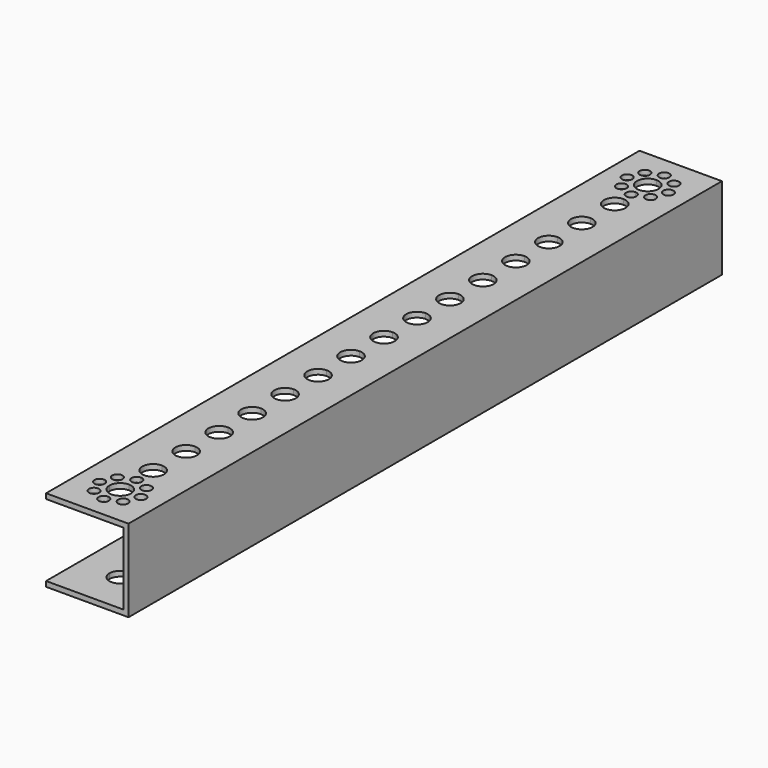
from build123d import *

# Parameters (mm, degrees)
F0_W     = 32
F0_H     = 32
F1_DEPTH = 288
F2_T     = -2
F4_DEPTH = 2
F5_R     = 2
F6_DEPTH = 2


with BuildPart() as f1:
    # F0 (on Front) → F1 (new body)
    with BuildSketch(Plane.XZ):
        with Locations((16, 16)):
            Rectangle(F0_W, F0_H)
    extrude(amount=-F1_DEPTH)

    # F2
    f2_openings = [f1.faces().sort_by_distance(p)[0] for p in [
        (0, 144, 16),
        (16, 0, 16),
        (16, 288, 16),
    ]]
    offset(amount=F2_T, openings=f2_openings)

    # F3 (on face) → F4 (cut, through all)
    with BuildSketch(Plane(origin=(0, 0, 0), x_dir=(1, 0, 0), z_dir=(0, 0, -1))):
        with BuildLine():
            Line((20.191, -15.999), (16, -15.999))
            Line((16, -15.999), (16, -20.19))
            ThreePointArc((16, -20.19), (18.96348452, -18.96248452), (20.191, -15.999))
        make_face()
        with BuildLine():
            ThreePointArc((20.191, -15.999), (18.96348452, -13.03551548), (16, -11.808))
            Line((16, -11.808), (16, -15.999))
            Line((16, -15.999), (20.191, -15.999))
        make_face()
        with BuildLine():
            Line((16, -15.999), (16, -11.808))
            ThreePointArc((16, -11.808), (13.03651548, -13.03551548), (11.809, -15.999))
            Line((11.809, -15.999), (16, -15.999))
        make_face()
        with BuildLine():
            Line((16, -15.999), (11.809, -15.999))
            ThreePointArc((11.809, -15.999), (13.03651548, -18.96248452), (16, -20.19))
            Line((16, -20.19), (16, -15.999))
        make_face()
        with BuildLine():
            ThreePointArc((20.191, -272.001), (18.96348452, -269.03751548), (16, -267.81))
            Line((16, -267.81), (16, -276.192))
            ThreePointArc((16, -276.192), (18.96348452, -274.96448452), (20.191, -272.001))
        make_face()
        with BuildLine():
            Line((16, -276.192), (16, -267.81))
            ThreePointArc((16, -267.81), (11.809, -272.001), (16, -276.192))
        make_face()
    extrude(amount=-F4_DEPTH, mode=Mode.SUBTRACT)

    # F5 (on face) → F6 (cut, through all)
    with BuildSketch(Plane.XY.offset(32)):
        with BuildLine():
            Line((16, 47.999), (16, 43.808))
            ThreePointArc((16, 43.808), (18.96348452, 45.03551548), (20.191, 47.999))
            ThreePointArc((20.191, 47.999), (18.96348452, 50.96248452), (16, 52.19))
            Line((16, 52.19), (16, 47.999))
        make_face()
        with BuildLine():
            ThreePointArc((16, 52.19), (11.809, 47.999), (16, 43.808))
            Line((16, 43.808), (16, 47.999))
            Line((16, 47.999), (16, 52.19))
        make_face()
        with BuildLine():
            Line((16, 31.999), (16, 27.808))
            ThreePointArc((16, 27.808), (18.96348452, 29.03551548), (20.191, 31.999))
            ThreePointArc((20.191, 31.999), (18.96348452, 34.96248452), (16, 36.19))
            Line((16, 36.19), (16, 31.999))
        make_face()
        with BuildLine():
            ThreePointArc((16, 36.19), (11.809, 31.999), (16, 27.808))
            Line((16, 27.808), (16, 31.999))
            Line((16, 31.999), (16, 36.19))
        make_face()
        with BuildLine():
            Line((16, 23.999), (16, 21.999))
            ThreePointArc((16, 21.999), (17.4142135624, 22.5847864376), (18, 23.999))
            ThreePointArc((18, 23.999), (17.4142135624, 25.4132135624), (16, 25.999))
            Line((16, 25.999), (16, 23.999))
        make_face()
        with BuildLine():
            ThreePointArc((16, 25.999), (14, 23.999), (16, 21.999))
            Line((16, 21.999), (16, 23.999))
            Line((16, 23.999), (16, 25.999))
        make_face()
        with BuildLine():
            Line((16, 15.999), (20.191, 15.999))
            ThreePointArc((20.191, 15.999), (18.96348452, 18.96248452), (16, 20.19))
            Line((16, 20.19), (16, 15.999))
        make_face()
        with BuildLine():
            ThreePointArc((22, 15.999), (24, 13.999), (26, 15.999))
            Line((26, 15.999), (22, 15.999))
        make_face()
        with BuildLine():
            Line((22, 15.999), (26, 15.999))
            ThreePointArc((26, 15.999), (24, 17.999), (22, 15.999))
        make_face()
        with Locations((21.6568542495, 21.6558542495)):
            Circle(F5_R)
        with BuildLine():
            ThreePointArc((16, 11.808), (18.96348452, 13.03551548), (20.191, 15.999))
            Line((20.191, 15.999), (16, 15.999))
            Line((16, 15.999), (16, 11.808))
        make_face()
        with Locations((10.3431457505, 21.6558542495)):
            Circle(F5_R)
        with BuildLine():
            Line((10, 15.999), (6, 15.999))
            ThreePointArc((6, 15.999), (8, 13.999), (10, 15.999))
        make_face()
        with BuildLine():
            ThreePointArc((10, 15.999), (8, 17.999), (6, 15.999))
            Line((6, 15.999), (10, 15.999))
        make_face()
        with Locations((10.3431457505, 10.3421457505)):
            Circle(F5_R)
        with BuildLine():
            Line((16, 9.999), (16, 5.999))
            ThreePointArc((16, 5.999), (17.4142135624, 6.5847864376), (18, 7.999))
            ThreePointArc((18, 7.999), (17.4142135624, 9.4132135624), (16, 9.999))
        make_face()
        with BuildLine():
            ThreePointArc((16, 9.999), (14, 7.999), (16, 5.999))
            Line((16, 5.999), (16, 9.999))
        make_face()
        with Locations((21.6568542495, 10.3421457505)):
            Circle(F5_R)
        with BuildLine():
            Line((16, 79.999), (16, 84.19))
            ThreePointArc((16, 84.19), (11.809, 79.999), (16, 75.808))
            Line((16, 75.808), (16, 79.999))
        make_face()
        with BuildLine():
            ThreePointArc((16, 68.19), (11.809, 63.999), (16, 59.808))
            Line((16, 59.808), (16, 63.999))
            Line((16, 63.999), (16, 68.19))
        make_face()
        with BuildLine():
            ThreePointArc((20.191, 79.999), (18.96348452, 82.96248452), (16, 84.19))
            Line((16, 84.19), (16, 79.999))
            Line((16, 79.999), (16, 75.808))
            ThreePointArc((16, 75.808), (18.96348452, 77.03551548), (20.191, 79.999))
        make_face()
        with BuildLine():
            Line((16, 63.999), (16, 59.808))
            ThreePointArc((16, 59.808), (18.96348452, 61.03551548), (20.191, 63.999))
            ThreePointArc((20.191, 63.999), (18.96348452, 66.96248452), (16, 68.19))
            Line((16, 68.19), (16, 63.999))
        make_face()
        with BuildLine():
            ThreePointArc((20.191, 95.999), (18.96348452, 98.96248452), (16, 100.19))
            Line((16, 100.19), (16, 95.999))
            Line((16, 95.999), (16, 91.808))
            ThreePointArc((16, 91.808), (18.96348452, 93.03551548), (20.191, 95.999))
        make_face()
        with BuildLine():
            Line((16, 95.999), (16, 100.19))
            ThreePointArc((16, 100.19), (11.809, 95.999), (16, 91.808))
            Line((16, 91.808), (16, 95.999))
        make_face()
        with BuildLine():
            Line((16, 111.999), (16, 116.19))
            ThreePointArc((16, 116.19), (11.809, 111.999), (16, 107.808))
            Line((16, 107.808), (16, 111.999))
        make_face()
        with BuildLine():
            ThreePointArc((20.191, 111.999), (18.96348452, 114.96248452), (16, 116.19))
            Line((16, 116.19), (16, 111.999))
            Line((16, 111.999), (16, 107.808))
            ThreePointArc((16, 107.808), (18.96348452, 109.03551548), (20.191, 111.999))
        make_face()
        with BuildLine():
            ThreePointArc((20.191, 127.999), (18.96348452, 130.96248452), (16, 132.19))
            Line((16, 132.19), (16, 127.999))
            Line((16, 127.999), (16, 123.808))
            ThreePointArc((16, 123.808), (18.96348452, 125.03551548), (20.191, 127.999))
        make_face()
        with BuildLine():
            Line((16, 127.999), (16, 132.19))
            ThreePointArc((16, 132.19), (11.809, 127.999), (16, 123.808))
            Line((16, 123.808), (16, 127.999))
        make_face()
        with BuildLine():
            ThreePointArc((16, 148.1912173133), (13.0365738502, 146.9635510576), (11.809209149, 144))
            Line((11.809209149, 144), (16, 144))
            Line((16, 144), (16, 148.1912173133))
        make_face()
        with BuildLine():
            Line((16, 144), (20.1912091378, 144))
            ThreePointArc((20.1912091378, 144), (20.191209142, 144.0001086593), (20.1912091434, 144.0002173185))
            ThreePointArc((20.1912091434, 144.0002173185), (18.9636197191, 146.9637757809), (16, 148.1912173133))
            Line((16, 148.1912173133), (16, 144))
        make_face()
        with BuildLine():
            ThreePointArc((16, 139.8092173238), (18.9635428824, 141.0365820254), (20.1912091378, 144))
            Line((20.1912091378, 144), (16, 144))
            Line((16, 144), (16, 139.8092173238))
        make_face()
        with BuildLine():
            Line((16, 144), (11.809209149, 144))
            ThreePointArc((11.809209149, 144), (13.0367275138, 141.0367299082), (16, 139.8092173238))
            Line((16, 139.8092173238), (16, 144))
        make_face()
        with BuildLine():
            ThreePointArc((20.191, 160.001), (18.96348452, 162.96448452), (16, 164.192))
            Line((16, 164.192), (16, 155.81))
            ThreePointArc((16, 155.81), (18.96348452, 157.03751548), (20.191, 160.001))
        make_face()
        with BuildLine():
            Line((16, 155.81), (16, 164.192))
            ThreePointArc((16, 164.192), (11.809, 160.001), (16, 155.81))
        make_face()
        with BuildLine():
            ThreePointArc((20.191, 176.001), (18.96348452, 178.96448452), (16, 180.192))
            Line((16, 180.192), (16, 171.81))
            ThreePointArc((16, 171.81), (18.96348452, 173.03751548), (20.191, 176.001))
        make_face()
        with BuildLine():
            Line((16, 171.81), (16, 180.192))
            ThreePointArc((16, 180.192), (11.809, 176.001), (16, 171.81))
        make_face()
        with BuildLine():
            Line((16, 187.81), (16, 196.192))
            ThreePointArc((16, 196.192), (11.809, 192.001), (16, 187.81))
        make_face()
        with BuildLine():
            ThreePointArc((20.191, 192.001), (18.96348452, 194.96448452), (16, 196.192))
            Line((16, 196.192), (16, 187.81))
            ThreePointArc((16, 187.81), (18.96348452, 189.03751548), (20.191, 192.001))
        make_face()
        with BuildLine():
            Line((16, 203.81), (16, 212.192))
            ThreePointArc((16, 212.192), (11.809, 208.001), (16, 203.81))
        make_face()
        with BuildLine():
            ThreePointArc((20.191, 208.001), (18.96348452, 210.96448452), (16, 212.192))
            Line((16, 212.192), (16, 203.81))
            ThreePointArc((16, 203.81), (18.96348452, 205.03751548), (20.191, 208.001))
        make_face()
        with BuildLine():
            Line((16, 219.81), (16, 228.192))
            ThreePointArc((16, 228.192), (11.809, 224.001), (16, 219.81))
        make_face()
        with BuildLine():
            ThreePointArc((20.191, 224.001), (18.96348452, 226.96448452), (16, 228.192))
            Line((16, 228.192), (16, 219.81))
            ThreePointArc((16, 219.81), (18.96348452, 221.03751548), (20.191, 224.001))
        make_face()
        with BuildLine():
            Line((16, 235.81), (16, 244.192))
            ThreePointArc((16, 244.192), (11.809, 240.001), (16, 235.81))
        make_face()
        with BuildLine():
            ThreePointArc((20.191, 240.001), (18.96348452, 242.96448452), (16, 244.192))
            Line((16, 244.192), (16, 235.81))
            ThreePointArc((16, 235.81), (18.96348452, 237.03751548), (20.191, 240.001))
        make_face()
        with BuildLine():
            Line((16, 251.81), (16, 260.192))
            ThreePointArc((16, 260.192), (11.809, 256.001), (16, 251.81))
        make_face()
        with BuildLine():
            ThreePointArc((20.191, 256.001), (18.96348452, 258.96448452), (16, 260.192))
            Line((16, 260.192), (16, 251.81))
            ThreePointArc((16, 251.81), (18.96348452, 253.03751548), (20.191, 256.001))
        make_face()
        with BuildLine():
            Line((16, 276.192), (16, 267.81))
            ThreePointArc((16, 267.81), (18.96348452, 269.03751548), (20.191, 272.001))
            ThreePointArc((20.191, 272.001), (18.96348452, 274.96448452), (16, 276.192))
        make_face()
        with BuildLine():
            ThreePointArc((16, 276.192), (11.809, 272.001), (16, 267.81))
            Line((16, 267.81), (16, 276.192))
        make_face()
        with BuildLine():
            ThreePointArc((16, 20.19), (13.03651548, 18.96248452), (11.809, 15.999))
            Line((11.809, 15.999), (16, 15.999))
            Line((16, 15.999), (16, 20.19))
        make_face()
        with BuildLine():
            Line((16, 15.999), (11.809, 15.999))
            ThreePointArc((11.809, 15.999), (13.03651548, 13.03551548), (16, 11.808))
            Line((16, 11.808), (16, 15.999))
        make_face()
        with Locations((21.6568542495, 266.3441457505)):
            Circle(F5_R)
        with Locations((21.6568542495, 277.6578542495)):
            Circle(F5_R)
        with Locations((24, 272.001)):
            Circle(F5_R)
        with BuildLine():
            ThreePointArc((16, 266.001), (14, 264.001), (16, 262.001))
            Line((16, 262.001), (16, 266.001))
        make_face()
        with BuildLine():
            Line((16, 266.001), (16, 262.001))
            ThreePointArc((16, 262.001), (17.4142135624, 262.5867864376), (18, 264.001))
            ThreePointArc((18, 264.001), (17.4142135624, 265.4152135624), (16, 266.001))
        make_face()
        with BuildLine():
            ThreePointArc((16, 282.001), (14, 280.001), (16, 278.001))
            Line((16, 278.001), (16, 282.001))
        make_face()
        with BuildLine():
            Line((16, 282.001), (16, 278.001))
            ThreePointArc((16, 278.001), (18, 280.001), (16, 282.001))
        make_face()
        with Locations((10.3431457505, 277.6578542495)):
            Circle(F5_R)
        with Locations((8, 272.001)):
            Circle(F5_R)
        with Locations((10.3431457505, 266.3441457505)):
            Circle(F5_R)
    extrude(amount=-F6_DEPTH, mode=Mode.SUBTRACT)


solid = f1.part
